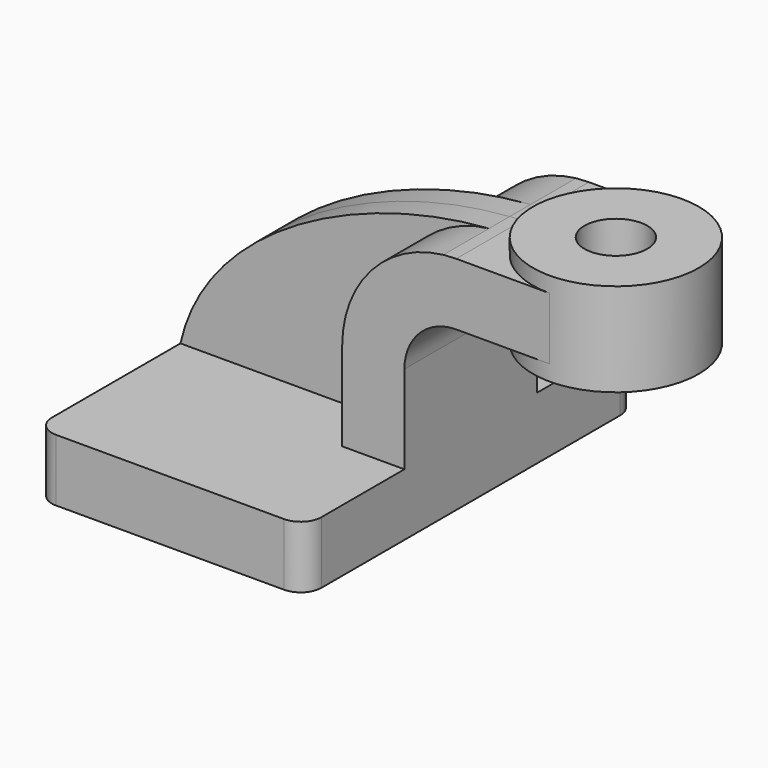
from build123d import *

# Parameters (mm, degrees)
F1_DEPTH = 63.5
F2_DEPTH = 25.4
F3_DEPTH = 7.9375
F5_R     = 6.35
F6_R     = 9.6111188935
F7_DEPTH = 85.726


with BuildPart() as f1:
    # F0 (on Front) → F1 (new body, symmetric)
    with BuildSketch(Plane.XZ):
        Polygon((-41.275, 9.525), (-41.275, -9.525), (41.275, -9.525), (41.275, 9.525), (22.225, 9.525), align=None)
    extrude(amount=F1_DEPTH, both=True)

    # F0 (on Front) → F2 (join, symmetric)
    with BuildSketch(Plane.XZ):
        with BuildLine():
            Line((22.225, 9.525), (41.275, 9.525))
            Line((41.275, 9.525), (41.275, 36.5252))
            ThreePointArc((41.275, 36.5252), (45.9246798487, 47.7505201513), (57.15, 52.4002))
            Line((57.15, 52.4002), (60.325, 52.4002))
            Line((60.325, 52.4002), (60.325, 71.4502))
            Line((60.325, 71.4502), (57.15, 71.4502))
            add(Edge.make_bspline(
                [(53.2220163185, 71.2286086107), (54.5371358708, 71.3237902727), (55.8469463929, 71.3977482988), (57.15, 71.4502)],
                knots=[112.6539740509, 112.6539740509, 112.6539740509, 112.6539740509, 116.2850421165, 116.2850421165, 116.2850421165, 116.2850421165], degree=3))
            ThreePointArc((53.2220163185, 71.2286086107), (31.1025389426, 59.790740988), (22.225, 36.5252))
            Line((22.225, 36.5252), (22.225, 9.525))
        make_face()
        Polygon((85.725, 71.4502), (60.325, 71.4502), (60.325, 52.4002), (85.725, 52.4002), (85.725, 61.9125), align=None)
    extrude(amount=F2_DEPTH, both=True)

    # F0 (on Front) → F3 (join, symmetric)
    with BuildSketch(Plane.XZ):
        with BuildLine():
            add(Edge.make_bspline(
                [(-41.275, 9.525), (-33.4914332719, 44.8937261862), (12.4204005857, 68.2755952564), (53.2220163185, 71.2286086107)],
                knots=[0, 0, 0, 0, 112.6539740509, 112.6539740509, 112.6539740509, 112.6539740509], degree=3))
            Line((-41.275, 9.525), (22.225, 9.525))
            Line((22.225, 9.525), (22.225, 36.5252))
            ThreePointArc((22.225, 36.5252), (31.1025389426, 59.790740988), (53.2220163185, 71.2286086107))
        make_face()
    extrude(amount=F3_DEPTH, both=True)

    # F0 (on Front) → F4 (revolve)
    with BuildSketch(Plane.XZ):
        Polygon((85.725, 76.2), (85.725, 71.4502), (85.725, 61.9125), (85.725, 52.4002), (85.725, 47.625), (111.125, 47.625), (111.125, 76.2), align=None)
    revolve(axis=Axis((85.725, 0, 69.05625), (0, 0, 1)))

    # F5
    f5_edges = [f1.edges().sort_by_distance(p)[0] for p in [
        (41.275, -63.5, 0),
        (-41.275, -63.5, 0),
        (41.275, 63.5, 0),
        (-41.275, 63.5, 0),
    ]]
    fillet(f5_edges, radius=F5_R)

    # F6 (on face) → F7 (cut, through all)
    with BuildSketch(Plane.XY.offset(76.2)):
        with Locations((85.725, 0)):
            Circle(F6_R)
    extrude(amount=-F7_DEPTH, mode=Mode.SUBTRACT)


solid = f1.part
